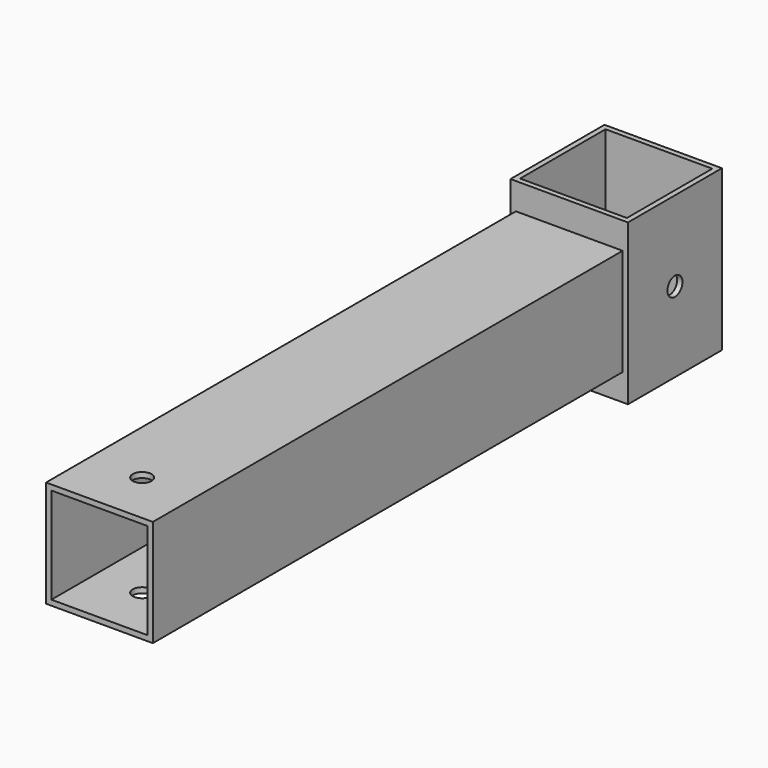
from build123d import *

# Parameters (mm, degrees)
F0_W     = 55
F0_H     = 55
F0_W_2   = 50
F0_H_2   = 50
F1_DEPTH = 75
F3_D     = 8.8
F4_W     = 50
F4_H     = 50
F4_W_2   = 45
F4_H_2   = 45
F5_DEPTH = 275
F7_D     = 8.8


with BuildPart() as f1:
    # F0 (on Top) → F1 (new body)
    with BuildSketch(Plane.XY):
        Rectangle(F0_W, F0_H)
        Rectangle(F0_W_2, F0_H_2, mode=Mode.SUBTRACT)
    extrude(amount=F1_DEPTH)

    # F3 (through all)
    with Locations(Plane(origin=(-27.5, 0, 0), x_dir=(0, -1, 0), z_dir=(-1, 0, 0))):
        with Locations((0, 37.5)):
            Hole(F3_D / 2)

    # F4 (on face) → F5 (join)
    with BuildSketch(Plane.XZ.offset(27.5)):
        with Locations((0, 37.5)):
            Rectangle(F4_W, F4_H)
        with Locations((0, 37.5)):
            Rectangle(F4_W_2, F4_H_2, mode=Mode.SUBTRACT)
    extrude(amount=F5_DEPTH)

    # F7 (through all)
    with Locations(Plane.XY.offset(62.5)):
        with Locations((0, -277.5)):
            Hole(F7_D / 2)


solid = f1.part
